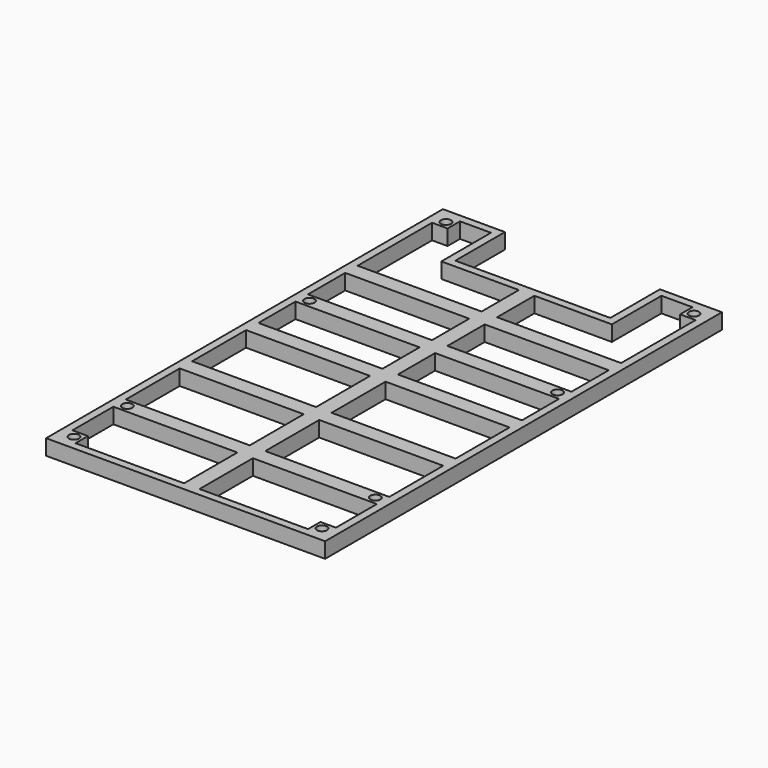
from build123d import *

# Parameters (mm, degrees)
F0_R     = 2.0701
F0_W     = 50.8
F0_H     = 27.6225
F1_DEPTH = 6.35


with BuildPart() as f1:
    # F0 (on Top) → F1 (new body)
    with BuildSketch(Plane.XY):
        Polygon((31.75, 76.2), (0, 76.2), (-31.75, 76.2), (-31.75, 101.6), (-57.15, 101.6), (-57.15, -101.6), (0, -101.6), (57.15, -101.6), (57.15, 101.6), (31.75, 101.6), align=None)
        with Locations((-50.8, -95.25)):
            Circle(F0_R, mode=Mode.SUBTRACT)
        with Locations((-50.8, -67.945)):
            Circle(F0_R, mode=Mode.SUBTRACT)
        Polygon((-3.175, -98.425), (-47.625, -98.425), (-47.625, -92.075), (-53.975, -92.075), (-53.975, -71.12), (-47.625, -71.12), (-3.175, -71.12), align=None, mode=Mode.SUBTRACT)
        Polygon((-47.625, -64.77), (-53.975, -64.77), (-53.975, -37.1475), (-3.175, -37.1475), (-3.175, -64.77), align=None, mode=Mode.SUBTRACT)
        with Locations((-28.575, -16.98625)):
            Rectangle(F0_W, F0_H, mode=Mode.SUBTRACT)
        Polygon((47.625, -71.12), (53.975, -71.12), (53.975, -92.075), (47.625, -92.075), (47.625, -98.425), (3.175, -98.425), (3.175, -71.12), align=None, mode=Mode.SUBTRACT)
        with Locations((50.8, -95.25)):
            Circle(F0_R, mode=Mode.SUBTRACT)
        Polygon((53.975, -37.1475), (53.975, -64.77), (47.625, -64.77), (3.175, -64.77), (3.175, -37.1475), align=None, mode=Mode.SUBTRACT)
        with Locations((50.8, -67.945)):
            Circle(F0_R, mode=Mode.SUBTRACT)
        with Locations((28.575, -16.98625)):
            Rectangle(F0_W, F0_H, mode=Mode.SUBTRACT)
        with Locations((-50.8, 25.3492)):
            Circle(F0_R, mode=Mode.SUBTRACT)
        Polygon((-53.975, 3.175), (-53.975, 22.1742), (-47.625, 22.1742), (-3.175, 22.1742), (-3.175, 3.175), align=None, mode=Mode.SUBTRACT)
        Polygon((-53.975, 28.5242), (-53.975, 47.5996), (-3.175, 47.5996), (-3.175, 28.5242), (-47.625, 28.5242), align=None, mode=Mode.SUBTRACT)
        with Locations((-50.8, 95.25)):
            Circle(F0_R, mode=Mode.SUBTRACT)
        Polygon((-34.925, 73.025), (-3.175, 73.025), (-3.175, 53.9496), (-53.975, 53.9496), (-53.975, 92.075), (-47.625, 92.075), (-47.625, 98.425), (-34.925, 98.425), align=None, mode=Mode.SUBTRACT)
        Polygon((53.975, 3.175), (3.175, 3.175), (3.175, 22.1742), (47.625, 22.1742), (53.975, 22.1742), align=None, mode=Mode.SUBTRACT)
        with Locations((50.8, 25.3492)):
            Circle(F0_R, mode=Mode.SUBTRACT)
        Polygon((3.175, 47.5996), (53.975, 47.5996), (53.975, 28.5242), (47.625, 28.5242), (3.175, 28.5242), align=None, mode=Mode.SUBTRACT)
        Polygon((3.175, 53.9496), (3.175, 73.025), (34.925, 73.025), (34.925, 98.425), (47.625, 98.425), (47.625, 92.075), (53.975, 92.075), (53.975, 53.9496), align=None, mode=Mode.SUBTRACT)
        with Locations((50.8, 95.25)):
            Circle(F0_R, mode=Mode.SUBTRACT)
    extrude(amount=F1_DEPTH)


solid = f1.part
